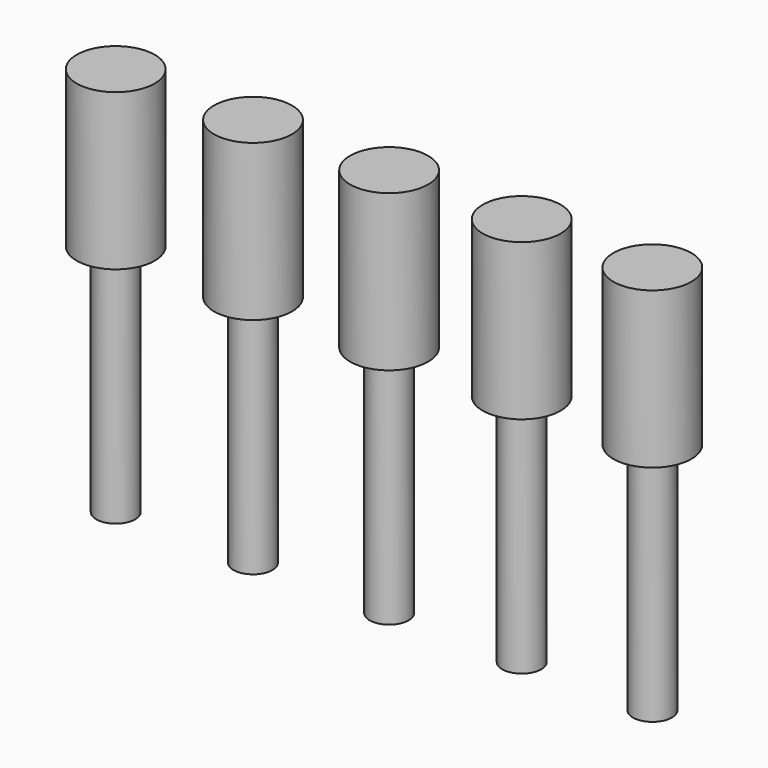
from build123d import *


with BuildPart() as f1:
    # F0 (on Front) → F1 (revolve)
    with BuildSketch(Plane.XZ):
        Polygon((0, 4), (0, 0), (0, -6), (0.5, -6), (0.5, 0), (1, 0), (1, 4), align=None)
    revolve(axis=Axis((0, 0, 2), (0, 0, -1)))


with BuildPart() as f2_1:
    # F2: copy of F1
    add(f1.part.moved(Location((3.52, 0, 0))))


with BuildPart() as f3_1:
    # F3: copy of F1
    add(f1.part.moved(Location((7.01, 0, 0))))


with BuildPart() as f4_1:
    # F4: copy of F1
    add(f1.part.moved(Location((10.41, 0, 0))))


with BuildPart() as f5_1:
    # F5: copy of F1
    add(f1.part.moved(Location((13.76, 0, 0))))


solid = Compound([f1.part, f2_1.part, f3_1.part, f4_1.part, f5_1.part])
